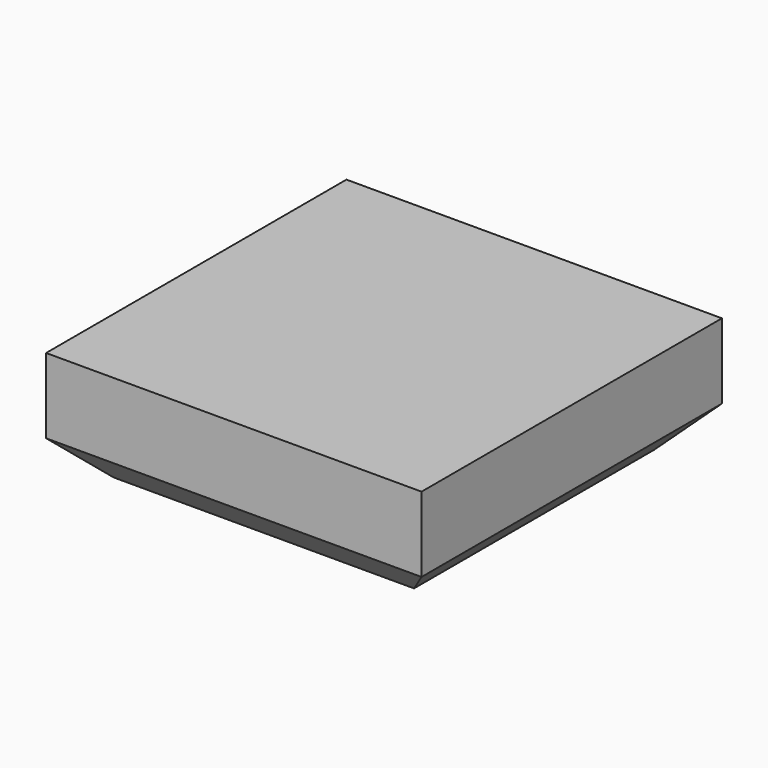
from build123d import *

# Parameters (mm, degrees)
SKETCH_W     = 5
SKETCH_H     = 5
PAD_DEPTH    = 1.5
CHAMFER_SIZE = 0.5


with BuildPart() as part:
    # Sketch → Pad (new body)
    with BuildSketch(Plane.XY):
        Rectangle(SKETCH_W, SKETCH_H)
    extrude(amount=PAD_DEPTH)

    # Chamfer
    chamfer_edges = [part.edges().sort_by_distance(p)[0] for p in [
        (-2.5, 0, 0),
        (0, -2.5, 0),
        (2.5, 0, 0),
        (0, 2.5, 0),
    ]]
    chamfer(chamfer_edges, length=CHAMFER_SIZE)


solid = part.part
